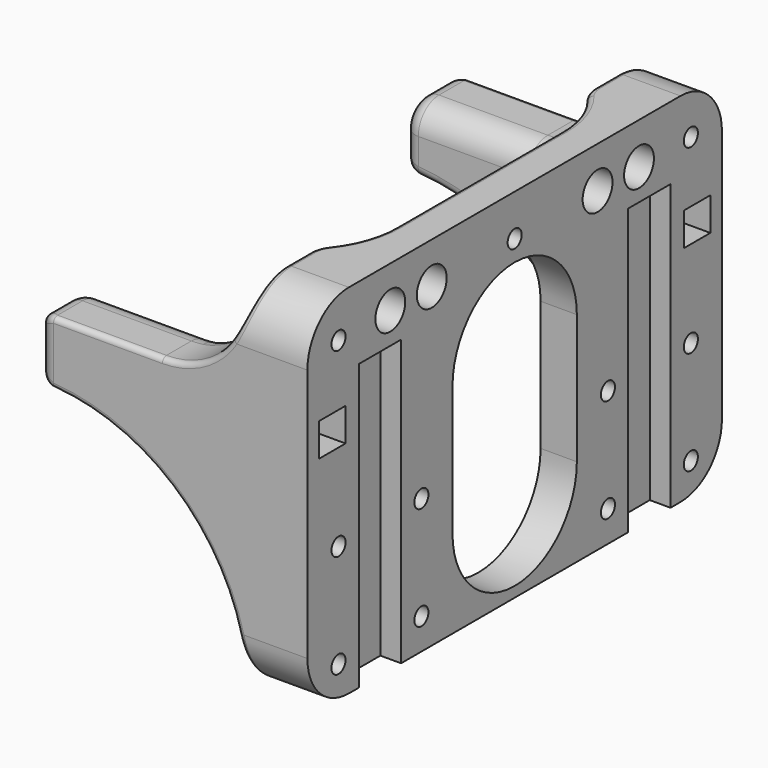
from build123d import *

# Parameters (mm, degrees)
SKETCH001_W     = 100
SKETCH001_H     = 69
SKETCH001_R     = 1.7
PAD_DEPTH       = 52
SKETCH004_W     = 10.2
SKETCH004_H     = 100
POCKET_DEPTH    = 4
SKETCH_W        = 6.4
SKETCH_H        = 6.4
POCKET001_DEPTH = 50
POCKET002_DEPTH = 100.001
POCKET003_DEPTH = 69.001
SKETCH007_R     = 3.6
POCKET004_DEPTH = 45.001
FILLET_R        = 10
FILLET001_R     = 10
FILLET002_R     = 10
FILLET003_R     = 10
FILLET004_R     = 5
FILLET005_R     = 5
FILLET006_R     = 2
FILLET007_R     = 2
FILLET008_R     = 1
FILLET009_R     = 0.99
FILLET010_R     = 3
FILLET011_R     = 3
CHAMFER_SIZE    = 1.7
CHAMFER001_SIZE = 1.7
CHAMFER002_SIZE = 1.7
CHAMFER003_SIZE = 1.7
CHAMFER004_SIZE = 1.7
CHAMFER005_SIZE = 1.7
CHAMFER006_SIZE = 1.7
CHAMFER007_SIZE = 1.7
CHAMFER008_SIZE = 1.7
CHAMFER009_SIZE = 1.7
CHAMFER010_SIZE = 1.7
SKETCH018_R     = 3.6
POCKET006_DEPTH = 52.001


with BuildPart() as part:
    # Sketch001 → Pad (new body)
    with BuildSketch(Plane(origin=(-86, 0, 0), x_dir=(0, -1, 0), z_dir=(-1, 0, 0))):
        with Locations((0, -5.5)):
            Rectangle(SKETCH001_W, SKETCH001_H)
        with Locations((42.5, -14)):
            Circle(SKETCH001_R, mode=Mode.SUBTRACT)
        with Locations((42.5, -34)):
            Circle(SKETCH001_R, mode=Mode.SUBTRACT)
        with Locations((22.5, -14)):
            Circle(SKETCH001_R, mode=Mode.SUBTRACT)
        with Locations((22.5, -34)):
            Circle(SKETCH001_R, mode=Mode.SUBTRACT)
        with Locations((-22.5, -14)):
            Circle(SKETCH001_R, mode=Mode.SUBTRACT)
        with Locations((-42.5, -14)):
            Circle(SKETCH001_R, mode=Mode.SUBTRACT)
        with Locations((-42.5, -34)):
            Circle(SKETCH001_R, mode=Mode.SUBTRACT)
        with Locations((-22.5, -34)):
            Circle(SKETCH001_R, mode=Mode.SUBTRACT)
        with Locations((-42.5, 21)):
            Circle(SKETCH001_R, mode=Mode.SUBTRACT)
        with Locations((42.5, 21)):
            Circle(SKETCH001_R, mode=Mode.SUBTRACT)
        with Locations((0, 21)):
            Circle(SKETCH001_R, mode=Mode.SUBTRACT)
        with BuildLine():
            ThreePointArc((-15, -23), (0, -38), (15, -23))
            Line((15, -23), (15, 2))
            ThreePointArc((15, 2), (0, 17), (-15, 2))
            Line((-15, -23), (-15, 2))
        make_face(mode=Mode.SUBTRACT)
    extrude(amount=PAD_DEPTH)

    # Sketch004 → Pocket (cut)
    with BuildSketch(Plane(origin=(-86, 0, 0), x_dir=(0, -1, 0), z_dir=(1, 0, 0))):
        with Locations((-32.5, 35)):
            Rectangle(SKETCH004_W, SKETCH004_H)
        with Locations((32.5, 35)):
            Rectangle(SKETCH004_W, SKETCH004_H)
    extrude(amount=-POCKET_DEPTH, mode=Mode.SUBTRACT)

    # Sketch → Pocket001 (cut)
    with BuildSketch(Plane(origin=(-86, 0, 0), x_dir=(0, -1, 0), z_dir=(1, 0, 0))):
        with Locations((-44, -6)):
            Rectangle(SKETCH_W, SKETCH_H)
        with Locations((44, -6)):
            Rectangle(SKETCH_W, SKETCH_H)
    extrude(amount=-POCKET001_DEPTH, mode=Mode.SUBTRACT)

    # Sketch005 → Pocket002 (cut, through all)
    with BuildSketch(Plane(origin=(-86, 50, 0), x_dir=(0, 0, -1), z_dir=(0, 1, 0))):
        with BuildLine():
            Line((0, 92), (60, 92))
            Line((60, 92), (60, 12))
            Line((60, 12), (40, 12))
            ThreePointArc((0, 52), (11.715729, 23.715729), (40, 12))
            Line((0, 52), (0, 92))
        make_face()
        with BuildLine():
            Line((-50, 92), (-12, 92))
            Line((-12, 92), (-12, 28))
            ThreePointArc((-28, 12), (-16.686292, 16.686292), (-12, 28))
            Line((-28, 12), (-50, 12))
            Line((-50, 12), (-50, 92))
        make_face()
    extrude(amount=-POCKET002_DEPTH, mode=Mode.SUBTRACT)

    # Sketch006 → Pocket003 (cut, through all)
    with BuildSketch(Plane(origin=(-86, 0, -40), x_dir=(0, -1, 0), z_dir=(0, 0, -1))):
        with BuildLine():
            Line((-38, 57), (38, 57))
            Line((38, 57), (38, 25))
            ThreePointArc((20, 7), (32.727922, 12.272078), (38, 25))
            Line((20, 7), (-20, 7))
            ThreePointArc((-38, 25), (-32.727922, 12.272078), (-20, 7))
            Line((-38, 25), (-38, 57))
        make_face()
    extrude(amount=-POCKET003_DEPTH, mode=Mode.SUBTRACT)

    # Sketch007 → Pocket004 (cut, through all)
    with BuildSketch(Plane(origin=(-93, 0, 0), x_dir=(0, -1, 0), z_dir=(-1, 0, 0))):
        with Locations((42.5, -14)):
            Circle(SKETCH007_R)
        with Locations((42.5, -34)):
            Circle(SKETCH007_R)
        with Locations((22.5, -14)):
            Circle(SKETCH007_R)
        with Locations((22.5, -34)):
            Circle(SKETCH007_R)
        with Locations((-22.5, -14)):
            Circle(SKETCH007_R)
        with Locations((-42.5, -14)):
            Circle(SKETCH007_R)
        with Locations((-42.5, -34)):
            Circle(SKETCH007_R)
        with Locations((-22.5, -34)):
            Circle(SKETCH007_R)
        with Locations((-42.5, 21)):
            Circle(SKETCH007_R)
        with Locations((42.5, 21)):
            Circle(SKETCH007_R)
        with Locations((0, 21)):
            Circle(SKETCH007_R)
    extrude(amount=POCKET004_DEPTH, mode=Mode.SUBTRACT)

    # Fillet
    fillet_edges = [part.edges().sort_by_distance(p)[0] for p in [
        (-92, -50, 29),
    ]]
    fillet(fillet_edges, radius=FILLET_R)

    # Fillet001
    fillet001_edges = [part.edges().sort_by_distance(p)[0] for p in [
        (-92, -50, -40),
    ]]
    fillet(fillet001_edges, radius=FILLET001_R)

    # Fillet002
    fillet002_edges = [part.edges().sort_by_distance(p)[0] for p in [
        (-92, 50, -40),
    ]]
    fillet(fillet002_edges, radius=FILLET002_R)

    # Fillet003
    fillet003_edges = [part.edges().sort_by_distance(p)[0] for p in [
        (-92, 50, 29),
    ]]
    fillet(fillet003_edges, radius=FILLET003_R)

    # Fillet004
    fillet004_edges = [part.edges().sort_by_distance(p)[0] for p in [
        (-101.645657, -35.378435, 17.832885),
    ]]
    fillet(fillet004_edges, radius=FILLET004_R)

    # Fillet005
    fillet005_edges = [part.edges().sort_by_distance(p)[0] for p in [
        (-126, 38, 12),
    ]]
    fillet(fillet005_edges, radius=FILLET005_R)

    # Fillet006
    fillet006_edges = [part.edges().sort_by_distance(p)[0] for p in [
        (-123.517396, -38, -2.713888),
    ]]
    fillet(fillet006_edges, radius=FILLET006_R)

    # Fillet007
    fillet007_edges = [part.edges().sort_by_distance(p)[0] for p in [
        (-123.517396, 38, -2.713888),
    ]]
    fillet(fillet007_edges, radius=FILLET007_R)

    # Fillet008
    fillet008_edges = [part.edges().sort_by_distance(p)[0] for p in [
        (-113.505103, 50, -8.377223),
    ]]
    fillet(fillet008_edges, radius=FILLET008_R)

    # Fillet009
    fillet009_edges = [part.edges().sort_by_distance(p)[0] for p in [
        (-126, -50, 12),
    ]]
    fillet(fillet009_edges, radius=FILLET009_R)

    # Fillet010
    fillet010_edges = [part.edges().sort_by_distance(p)[0] for p in [
        (-138, -46.005, 12),
    ]]
    fillet(fillet010_edges, radius=FILLET010_R)

    # Fillet011
    fillet011_edges = [part.edges().sort_by_distance(p)[0] for p in [
        (-138, 46.005, 12),
    ]]
    fillet(fillet011_edges, radius=FILLET011_R)

    # Chamfer
    chamfer_edges = [part.edges().sort_by_distance(p)[0] for p in [
        (-93, -40.8, -34),
    ]]
    chamfer(chamfer_edges, length=CHAMFER_SIZE)

    # Chamfer001
    chamfer001_edges = [part.edges().sort_by_distance(p)[0] for p in [
        (-93, -40.8, -14),
    ]]
    chamfer(chamfer001_edges, length=CHAMFER001_SIZE)

    # Chamfer002
    chamfer002_edges = [part.edges().sort_by_distance(p)[0] for p in [
        (-93, -40.8, 21),
    ]]
    chamfer(chamfer002_edges, length=CHAMFER002_SIZE)

    # Chamfer003
    chamfer003_edges = [part.edges().sort_by_distance(p)[0] for p in [
        (-93, -20.8, -34),
    ]]
    chamfer(chamfer003_edges, length=CHAMFER003_SIZE)

    # Chamfer004
    chamfer004_edges = [part.edges().sort_by_distance(p)[0] for p in [
        (-93, -20.8, -14),
    ]]
    chamfer(chamfer004_edges, length=CHAMFER004_SIZE)

    # Chamfer005
    chamfer005_edges = [part.edges().sort_by_distance(p)[0] for p in [
        (-93, 1.7, 21),
    ]]
    chamfer(chamfer005_edges, length=CHAMFER005_SIZE)

    # Chamfer006
    chamfer006_edges = [part.edges().sort_by_distance(p)[0] for p in [
        (-93, 24.2, -34),
    ]]
    chamfer(chamfer006_edges, length=CHAMFER006_SIZE)

    # Chamfer007
    chamfer007_edges = [part.edges().sort_by_distance(p)[0] for p in [
        (-93, 24.2, -14),
    ]]
    chamfer(chamfer007_edges, length=CHAMFER007_SIZE)

    # Chamfer008
    chamfer008_edges = [part.edges().sort_by_distance(p)[0] for p in [
        (-93, 44.2, -34),
    ]]
    chamfer(chamfer008_edges, length=CHAMFER008_SIZE)

    # Chamfer009
    chamfer009_edges = [part.edges().sort_by_distance(p)[0] for p in [
        (-93, 44.2, -14),
    ]]
    chamfer(chamfer009_edges, length=CHAMFER009_SIZE)

    # Chamfer010
    chamfer010_edges = [part.edges().sort_by_distance(p)[0] for p in [
        (-93, 44.2, 21),
    ]]
    chamfer(chamfer010_edges, length=CHAMFER010_SIZE)

    # Sketch018 → Pocket006 (cut, through all)
    with BuildSketch(Plane(origin=(-86, 0, 0), x_dir=(0, -1, 0), z_dir=(1, 0, 0))):
        with Locations((-30, -21)):
            Circle(SKETCH018_R)
        with Locations((-20, -21)):
            Circle(SKETCH018_R)
        with Locations((20, -21)):
            Circle(SKETCH018_R)
        with Locations((30, -21)):
            Circle(SKETCH018_R)
    extrude(amount=-POCKET006_DEPTH, mode=Mode.SUBTRACT)


solid = part.part
